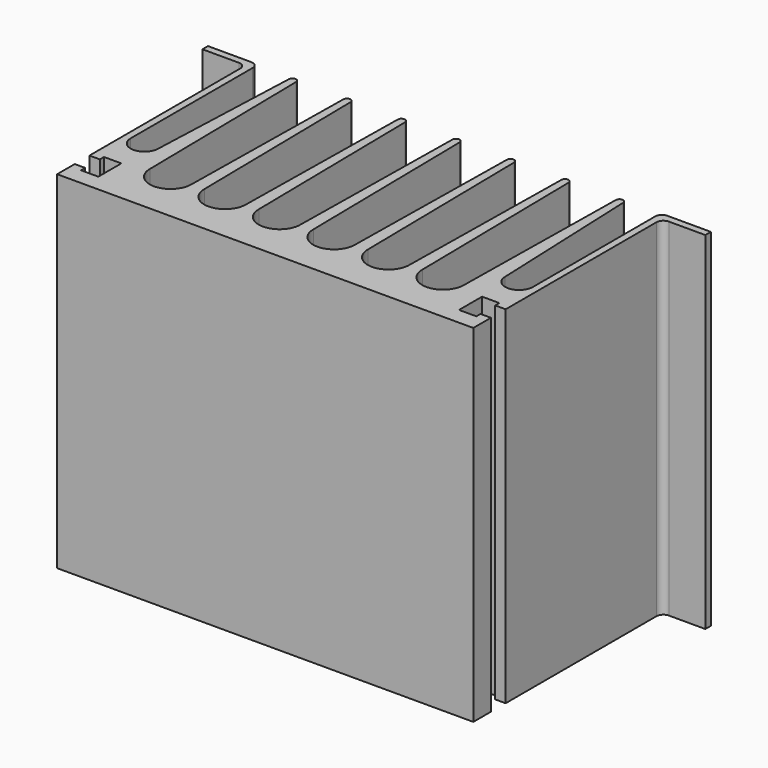
from build123d import *

# Parameters (mm, degrees)
PAD_DEPTH = 100


with BuildPart() as part:
    # Sketch002 → Pad (new body)
    with BuildSketch(Plane.XY):
        with BuildLine():
            Line((64.96916, -39.403533), (64.96916, -33.053533))
            Line((64.96916, -33.053533), (61.96916, -33.053533))
            Line((61.96916, -33.053533), (61.96916, -34.553533))
            Line((61.96916, -34.553533), (56.96916, -34.553533))
            Line((56.96916, -30.403533), (56.96916, -34.553533))
            Line((56.96916, -26.253533), (56.96916, -30.403533))
            Line((56.96916, -26.253533), (61.96916, -26.253533))
            Line((61.96916, -26.253533), (61.96916, -27.753533))
            Line((61.96916, -27.753533), (64.96916, -27.753533))
            Line((64.96916, -27.753533), (64.96916, 26.596467))
            ThreePointArc((66.96916, 28.596467), (65.554946, 28.010681), (64.96916, 26.596467))
            Line((66.96916, 28.596467), (77.46916, 28.596467))
            Line((77.46916, 28.596467), (77.46916, 30.596467))
            Line((77.46916, 30.596467), (64.96916, 30.596467))
            ThreePointArc((64.96916, 30.596467), (63.554946, 30.010681), (62.96916, 28.596467))
            Line((62.96916, 28.596467), (62.96916, -15.403533))
            ThreePointArc((54.96916, -15.403533), (58.96916, -19.403533), (62.96916, -15.403533))
            Line((54.96916, -15.403533), (53.16916, 29.346467))
            ThreePointArc((53.16916, 29.346467), (52.112017, 30.40361), (51.054874, 29.346467))
            Line((51.054874, 29.346467), (50.254874, -24.403533))
            ThreePointArc((38.254874, -24.403533), (44.254874, -30.403533), (50.254874, -24.403533))
            Line((38.254874, -24.403533), (37.454874, 29.346467))
            ThreePointArc((37.454874, 29.346467), (36.397731, 30.40361), (35.340589, 29.346467))
            Line((35.340589, 29.346467), (34.540589, -24.403533))
            ThreePointArc((22.540589, -24.403533), (28.540589, -30.403533), (34.540589, -24.403533))
            Line((22.540589, -24.403533), (21.740589, 29.346467))
            ThreePointArc((21.740589, 29.346467), (20.683446, 30.40361), (19.626303, 29.346467))
            Line((19.626303, 29.346467), (18.826303, -24.403533))
            ThreePointArc((6.826303, -24.403533), (12.826303, -30.403533), (18.826303, -24.403533))
            Line((6.826303, -24.403533), (6.026303, 29.346467))
            ThreePointArc((6.026303, 29.346467), (4.96916, 30.40361), (3.912017, 29.346467))
            Line((3.112017, -24.403533), (3.912017, 29.346467))
            ThreePointArc((-8.887983, -24.403533), (-2.887983, -30.403533), (3.112017, -24.403533))
            Line((-9.687983, 29.346467), (-8.887983, -24.403533))
            ThreePointArc((-9.687983, 29.346467), (-10.745126, 30.40361), (-11.802269, 29.346467))
            Line((-12.602269, -24.403533), (-11.802269, 29.346467))
            ThreePointArc((-24.602269, -24.403533), (-18.602269, -30.403533), (-12.602269, -24.403533))
            Line((-25.402269, 29.346467), (-24.602269, -24.403533))
            ThreePointArc((-25.402269, 29.346467), (-26.459411, 30.40361), (-27.516554, 29.346467))
            Line((-28.316554, -24.403533), (-27.516554, 29.346467))
            ThreePointArc((-40.316554, -24.403533), (-34.316554, -30.403533), (-28.316554, -24.403533))
            Line((-41.116554, 29.346467), (-40.316554, -24.403533))
            ThreePointArc((-41.116554, 29.346467), (-42.173697, 30.40361), (-43.23084, 29.346467))
            Line((-45.03084, -15.403533), (-43.23084, 29.346467))
            ThreePointArc((-53.03084, -15.403533), (-49.03084, -19.403533), (-45.03084, -15.403533))
            Line((-53.03084, 28.596467), (-53.03084, -15.403533))
            ThreePointArc((-53.03084, 28.596467), (-53.616626, 30.010681), (-55.03084, 30.596467))
            Line((-67.53084, 30.596467), (-55.03084, 30.596467))
            Line((-67.53084, 28.596467), (-67.53084, 30.596467))
            Line((-57.03084, 28.596467), (-67.53084, 28.596467))
            ThreePointArc((-55.03084, 26.596467), (-55.616626, 28.010681), (-57.03084, 28.596467))
            Line((-55.03084, -27.753533), (-55.03084, 26.596467))
            Line((-52.03084, -27.753533), (-55.03084, -27.753533))
            Line((-52.03084, -26.253533), (-52.03084, -27.753533))
            Line((-47.03084, -26.253533), (-52.03084, -26.253533))
            Line((-47.03084, -26.253533), (-47.03084, -30.403533))
            Line((-47.03084, -30.403533), (-47.03084, -34.553533))
            Line((-52.03084, -34.553533), (-47.03084, -34.553533))
            Line((-52.03084, -33.053533), (-52.03084, -34.553533))
            Line((-55.03084, -33.053533), (-52.03084, -33.053533))
            Line((-55.03084, -39.403533), (-55.03084, -33.053533))
            Line((64.96916, -39.403533), (-55.03084, -39.403533))
        make_face()
    extrude(amount=PAD_DEPTH)


solid = part.part
